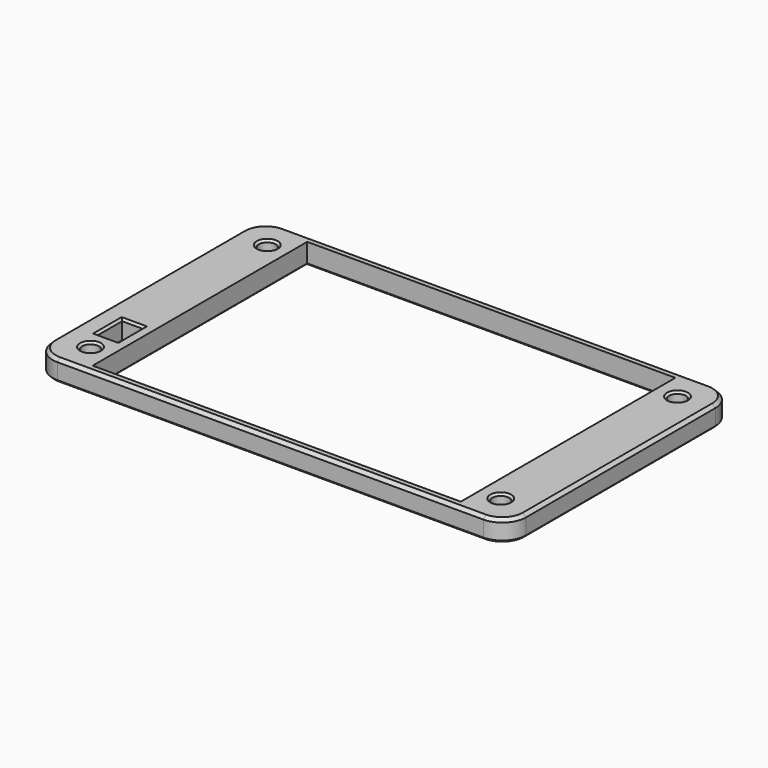
from build123d import *

# Parameters (mm, degrees)
PAD007_DEPTH    = 4
SKETCH018_R     = 1.6
SKETCH018_W     = 70
SKETCH018_H     = 51
SKETCH018_W_2   = 4
SKETCH018_H_2   = 6
POCKET005_DEPTH = 4
CHAMFER006_SIZE = 0.4
CHAMFER009_SIZE = 0.6


with BuildPart() as part:
    # Sketch017 → Pad007 (new body)
    with BuildSketch(Plane.XY):
        with BuildLine():
            Line((-40.5, -27), (40.5, -27))
            ThreePointArc((40.5, -27), (43.681981, -25.681981), (45, -22.5))
            Line((45, -22.5), (45, 22.5))
            ThreePointArc((45, 22.5), (43.681981, 25.681981), (40.5, 27))
            Line((40.5, 27), (-40.5, 27))
            ThreePointArc((-40.5, 27), (-43.681981, 25.681981), (-45, 22.5))
            Line((-45, 22.5), (-45, -22.5))
            ThreePointArc((-45, -22.5), (-43.681981, -25.681981), (-40.5, -27))
        make_face()
    extrude(amount=PAD007_DEPTH)

    # Sketch018 (on Face9 of Pad007) → Pocket005 (cut)
    with BuildSketch(Plane(origin=(0, 0, 0), x_dir=(1, 0, 0), z_dir=(0, 0, -1))):
        with Locations((-39, 21)):
            Circle(SKETCH018_R)
        with Locations((39, 21)):
            Circle(SKETCH018_R)
        with Locations((39, -21)):
            Circle(SKETCH018_R)
        with Locations((-39, -21)):
            Circle(SKETCH018_R)
        Rectangle(SKETCH018_W, SKETCH018_H)
        with Locations((-39, 14)):
            Rectangle(SKETCH018_W_2, SKETCH018_H_2)
    extrude(amount=-POCKET005_DEPTH, mode=Mode.SUBTRACT)

    # Chamfer006
    chamfer006_edges = [part.edges().sort_by_distance(p)[0] for p in [
        (0, -27, 0),
        (-43.681981, -25.681981, 0),
        (43.681981, -25.681981, 0),
        (-45, 0, 0),
        (45, 0, 0),
        (-43.681981, 25.681981, 0),
        (43.681981, 25.681981, 0),
        (0, 27, 0),
        (-40.6, -21, 0),
        (-41, -14, 0),
        (-39, -17, 0),
        (-37, -14, 0),
        (-39, -11, 0),
        (37.4, -21, 0),
        (-40.6, 21, 0),
        (-35, 0, 0),
        (0, -25.5, 0),
        (35, 0, 0),
        (0, 25.5, 0),
        (37.4, 21, 0),
        (-40.6, -21, 4),
        (-39, -17, 4),
        (-41, -14, 4),
        (-39, -11, 4),
        (-37, -14, 4),
        (-40.6, 21, 4),
        (37.4, 21, 4),
        (37.4, -21, 4),
    ]]
    chamfer(chamfer006_edges, length=CHAMFER006_SIZE)

    # Chamfer009
    chamfer009_edges = [part.edges().sort_by_distance(p)[0] for p in [
        (-45, 0, 4),
    ]]
    chamfer(chamfer009_edges, length=CHAMFER009_SIZE)


with BuildPart() as part_1:
    # Body001 placement: moved
    add(part.part.moved(Location((0, 0, 8.5))))


solid = part_1.part
